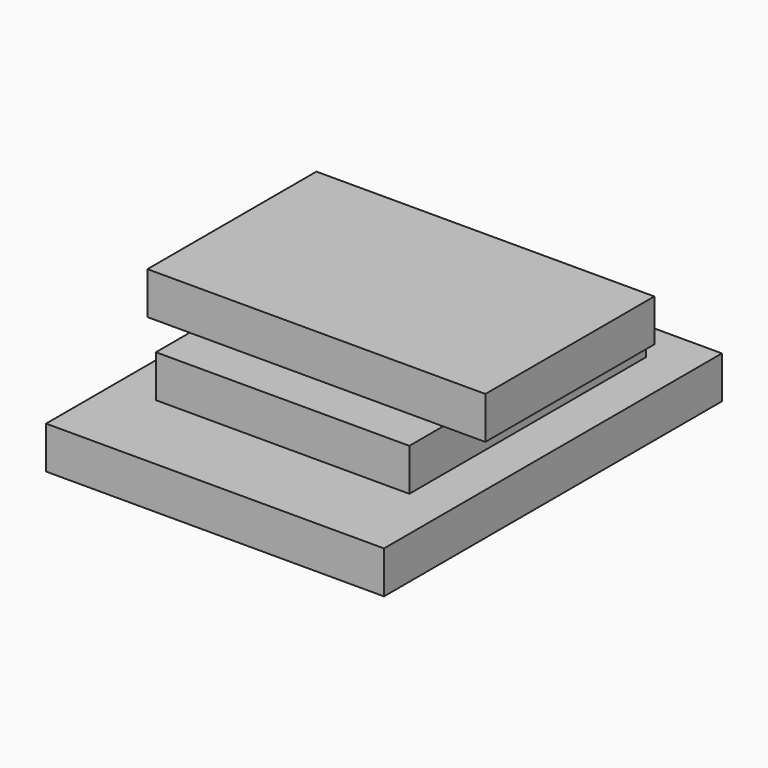
from build123d import *

# Parameters (mm, degrees)
F1_W     = 16
F1_H     = 20
F2_DEPTH = 2
F3_W     = 12
F3_H     = 14
F4_DEPTH = 2
F5_W     = 2
F5_H     = 10
F5_W_2   = 12
F6_DEPTH = 2


with BuildPart() as f2:
    # F1 (on Top) → F2 (new body)
    with BuildSketch(Plane.XY):
        Rectangle(F1_W, F1_H)
    extrude(amount=F2_DEPTH)

    # F3 (on face) → F4 (join)
    with BuildSketch(Plane.XY.offset(2)):
        with Locations((0, 1)):
            Rectangle(F3_W, F3_H)
    extrude(amount=F4_DEPTH)

    # F5 (on face) → F6 (join)
    with BuildSketch(Plane.XY.offset(4)):
        with Locations((-7, 1)):
            Rectangle(F5_W, F5_H)
        with Locations((0, 1)):
            Rectangle(F5_W_2, F5_H)
        with Locations((7, 1)):
            Rectangle(F5_W, F5_H)
    extrude(amount=F6_DEPTH)


solid = f2.part
